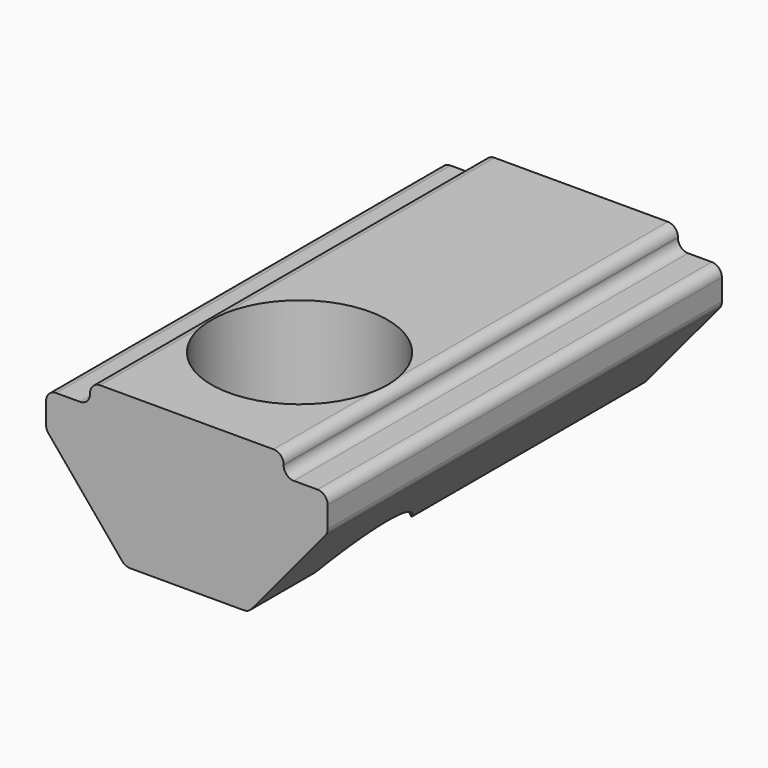
from build123d import *

# Parameters (mm, degrees)
PAD_DEPTH    = 14
FILLET_R     = 0.29
SKETCH001_R  = 2.5
POCKET_DEPTH = 4.301


with BuildPart() as part:
    # Sketch → Pad (new body)
    with BuildSketch(Plane.XZ):
        Polygon((-2.75, 0), (2.75, 0), (2.75, -0.6), (4, -0.6), (4, -1.6), (1.75, -4.3), (-1.75, -4.3), (-4, -1.6), (-4, -0.6), (-2.75, -0.6), align=None)
    extrude(amount=PAD_DEPTH)

    # Fillet
    fillet_edges = [part.edges().sort_by_distance(p)[0] for p in [
        (1.75, -7, -4.3),
        (4, -7, -1.6),
        (4, -7, -0.6),
        (-1.75, -7, -4.3),
        (-4, -7, -1.6),
        (-4, -7, -0.6),
        (2.75, -7, -0.6),
        (2.75, -7, 0),
        (-2.75, -7, -0.6),
        (-2.75, -7, 0),
    ]]
    fillet(fillet_edges, radius=FILLET_R)

    # Sketch001 → Pocket (cut, through all)
    with BuildSketch(Plane.XY):
        with Locations((0, -10)):
            Circle(SKETCH001_R)
    extrude(amount=-POCKET_DEPTH, mode=Mode.SUBTRACT)

    # Sphere → Sphere (revolve)
    with BuildSketch(Plane(origin=(0, -4, -4), x_dir=(1, 0, 0), z_dir=(0, 0, 1))):
        with BuildLine():
            ThreePointArc((0, -1.2), (1.2, 0), (0, 1.2))
            Line((0, 1.2), (0, -1.2))
        make_face()
    revolve(axis=Axis((0, -4, -4), (0, 1, 0)))


solid = part.part
